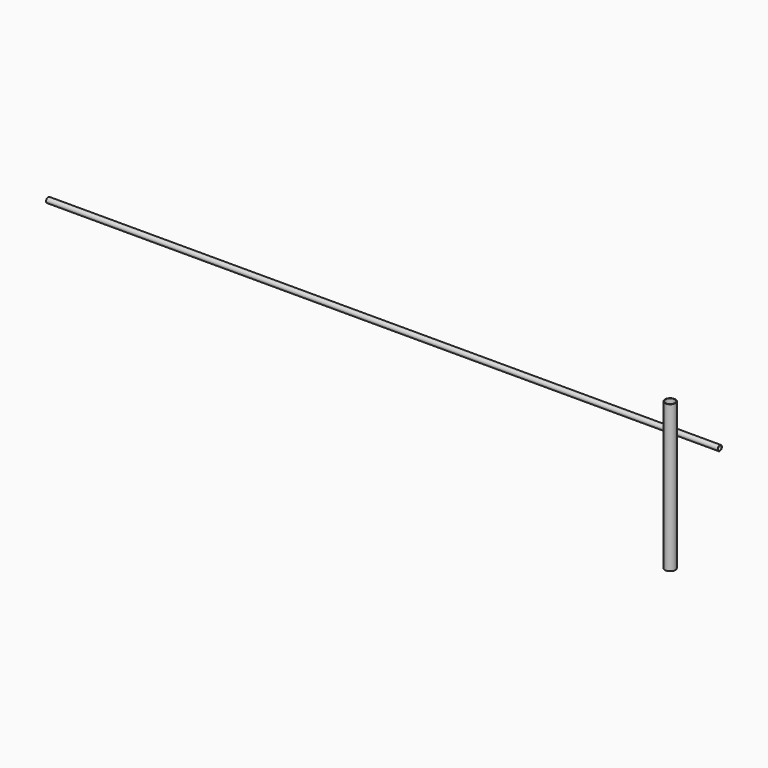
from build123d import *

# Parameters (mm, degrees)
F0_R          = 76.2
F0_R_2        = 69.85
F1_DEPTH      = 1219.2
F1_DEPTH_BACK = 914.4
F2_R          = 38.1
F2_R_2        = 31.75
F3_DEPTH      = 9144
F3_DEPTH_BACK = 609.6


with BuildPart() as f1:
    # F0 (on Top) → F1 (new body, two sides)
    with BuildSketch(Plane.XY) as f1_sk:
        Circle(F0_R)
        Circle(F0_R_2, mode=Mode.SUBTRACT)
    extrude(amount=F1_DEPTH)
    extrude(f1_sk.sketch, amount=-F1_DEPTH_BACK)


with BuildPart() as f3:
    # F2 (on Right) → F3 (new body, two sides)
    with BuildSketch(Plane.YZ) as f3_sk:
        with Locations((139.7, 762)):
            Circle(F2_R)
        with Locations((139.7, 762)):
            Circle(F2_R_2, mode=Mode.SUBTRACT)
    extrude(amount=-F3_DEPTH)
    extrude(f3_sk.sketch, amount=F3_DEPTH_BACK)


solid = Compound([f1.part, f3.part])
